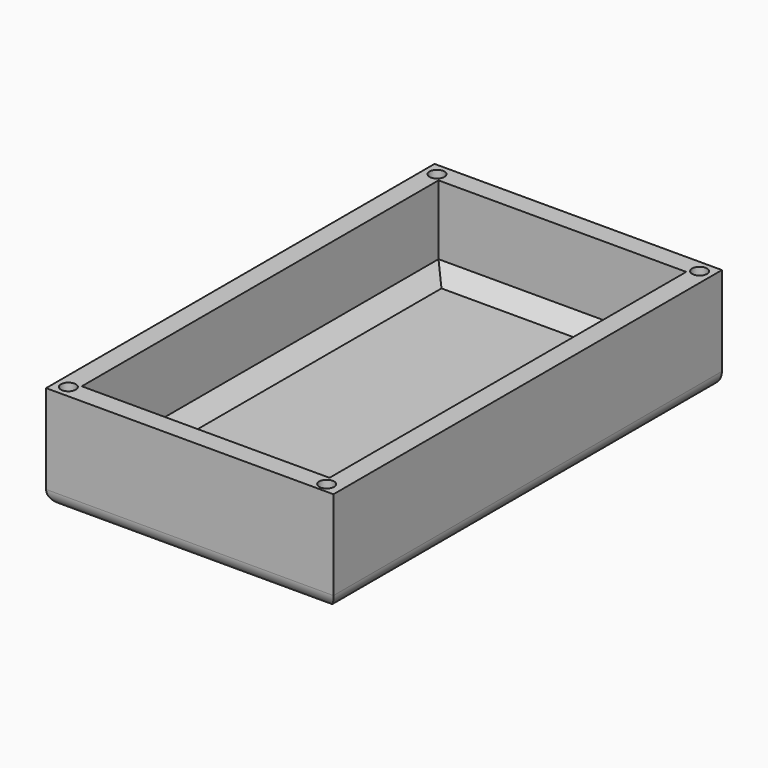
from build123d import *

# Parameters (mm, degrees)
CYLINDER003_R     = 1.5
CYLINDER003_DEPTH = 6
CYLINDER001_R     = 1.5
CYLINDER001_DEPTH = 6
CYLINDER002_R     = 1.5
CYLINDER002_DEPTH = 6
CYLINDER_R        = 1.5
CYLINDER_DEPTH    = 6
BOX001_W          = 50
BOX001_H          = 90
BOX001_DEPTH      = 17
CHAMFER_SIZE      = 3
BOX_W             = 58
BOX_H             = 98
BOX_DEPTH         = 21
FILLET_R          = 3


with BuildPart() as cylinder003:
    # Cylinder003 → Cylinder003 (new body)
    with BuildSketch(Plane(origin=(55.5, 95.5, 15), x_dir=(1, 0, 0), z_dir=(0, 0, 1))):
        Circle(CYLINDER003_R)
    extrude(amount=CYLINDER003_DEPTH)


with BuildPart() as cylinder001:
    # Cylinder001 → Cylinder001 (new body)
    with BuildSketch(Plane(origin=(55.012, 2.02785, 15), x_dir=(1, 0, 0), z_dir=(0, 0, 1))):
        Circle(CYLINDER001_R)
    extrude(amount=CYLINDER001_DEPTH)


with BuildPart() as cylinder002:
    # Cylinder002 → Cylinder002 (new body)
    with BuildSketch(Plane(origin=(2.5, 95.5, 15), x_dir=(1, 0, 0), z_dir=(0, 0, 1))):
        Circle(CYLINDER002_R)
    extrude(amount=CYLINDER002_DEPTH)


with BuildPart() as cylinder:
    # Cylinder → Cylinder (new body)
    with BuildSketch(Plane(origin=(2.5, 2.5, 15), x_dir=(1, 0, 0), z_dir=(0, 0, 1))):
        Circle(CYLINDER_R)
    extrude(amount=CYLINDER_DEPTH)


with BuildPart() as chamfer_body:
    # Box001 → Box001 (new body)
    with BuildSketch(Plane(origin=(4, 4, 4), x_dir=(1, 0, 0), z_dir=(0, 0, 1))):
        with Locations((25, 45)):
            Rectangle(BOX001_W, BOX001_H)
    extrude(amount=BOX001_DEPTH)

    # Chamfer
    chamfer_edges = [chamfer_body.edges().sort_by_distance(p)[0] for p in [
        (4, 49, 4),
        (54, 49, 4),
        (29, 4, 4),
        (29, 94, 4),
    ]]
    chamfer(chamfer_edges, length=CHAMFER_SIZE)


with BuildPart() as case_top:
    # Box → Box (new body)
    with BuildSketch(Plane.XY):
        with Locations((29, 49)):
            Rectangle(BOX_W, BOX_H)
    extrude(amount=BOX_DEPTH)

    # Cut: cut Chamfer body
    add(chamfer_body.part, mode=Mode.SUBTRACT)

    # Fillet
    fillet_edges = [case_top.edges().sort_by_distance(p)[0] for p in [
        (0, 49, 0),
        (29, 0, 0),
        (58, 49, 0),
    ]]
    fillet(fillet_edges, radius=FILLET_R)

    # Cut001: cut Cylinder
    add(cylinder.part, mode=Mode.SUBTRACT)

    # Cut002: cut Cylinder002
    add(cylinder002.part, mode=Mode.SUBTRACT)

    # Cut003: cut Cylinder001
    add(cylinder001.part, mode=Mode.SUBTRACT)

    # Cut004: cut Cylinder003
    add(cylinder003.part, mode=Mode.SUBTRACT)


solid = case_top.part
